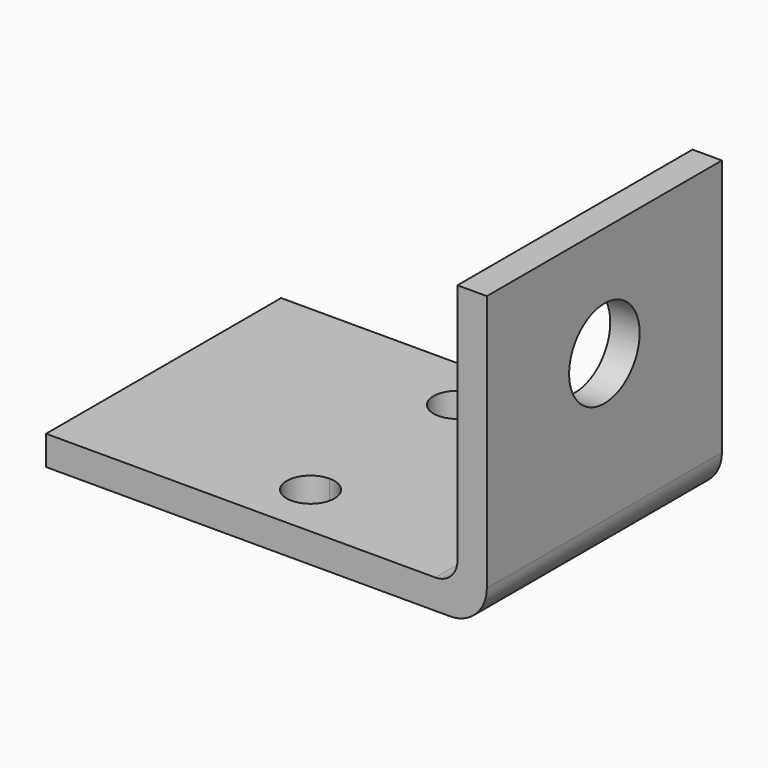
from build123d import *

# Parameters (mm, degrees)
F0_W     = 56
F0_H     = 4
F0_W_2   = 4
F0_H_2   = 36
F1_DEPTH = 20
F2_R     = 5
F3_R     = 3
F4_R     = 6
F5_DEPTH = 4
F7_DEPTH = 4


with BuildPart() as f1:
    # F0 (on Front) → F1 (new body, symmetric)
    with BuildSketch(Plane.XZ):
        with Locations((28, 2)):
            Rectangle(F0_W, F0_H)
        with Locations((58, 2)):
            Rectangle(F0_W_2, F0_H)
        with Locations((58, 22)):
            Rectangle(F0_W_2, F0_H_2)
    extrude(amount=F1_DEPTH, both=True)

    # F2
    f2_edges = [f1.edges().sort_by_distance(p)[0] for p in [
        (60, 0, 0),
    ]]
    fillet(f2_edges, radius=F2_R)

    # F3
    f3_edges = [f1.edges().sort_by_distance(p)[0] for p in [
        (56, 0, 4),
    ]]
    fillet(f3_edges, radius=F3_R)

    # F4 (on face) → F5 (cut)
    with BuildSketch(Plane.YZ.offset(60)):
        with Locations((0, 25)):
            Circle(F4_R)
    extrude(amount=-F5_DEPTH, mode=Mode.SUBTRACT)

    # F6 (on face) → F7 (cut)
    with BuildSketch(Plane.XY.offset(4)):
        with BuildLine():
            ThreePointArc((30, -15.75), (32.298097, -14.798097), (33.25, -12.5))
            ThreePointArc((33.25, -12.5), (32.298097, -10.201903), (30, -9.25))
            Line((30, -9.25), (30, -15.75))
        make_face()
        with BuildLine():
            ThreePointArc((30, 15.75), (26.75, 12.5), (30, 9.25))
            Line((30, 9.25), (30, 15.75))
        make_face()
        with BuildLine():
            Line((30, 15.75), (30, 9.25))
            ThreePointArc((30, 9.25), (32.298097, 10.201903), (33.25, 12.5))
            ThreePointArc((33.25, 12.5), (32.298097, 14.798097), (30, 15.75))
        make_face()
        with BuildLine():
            Line((30, -15.75), (30, -9.25))
            ThreePointArc((30, -9.25), (26.75, -12.5), (30, -15.75))
        make_face()
    extrude(amount=-F7_DEPTH, mode=Mode.SUBTRACT)


solid = f1.part
